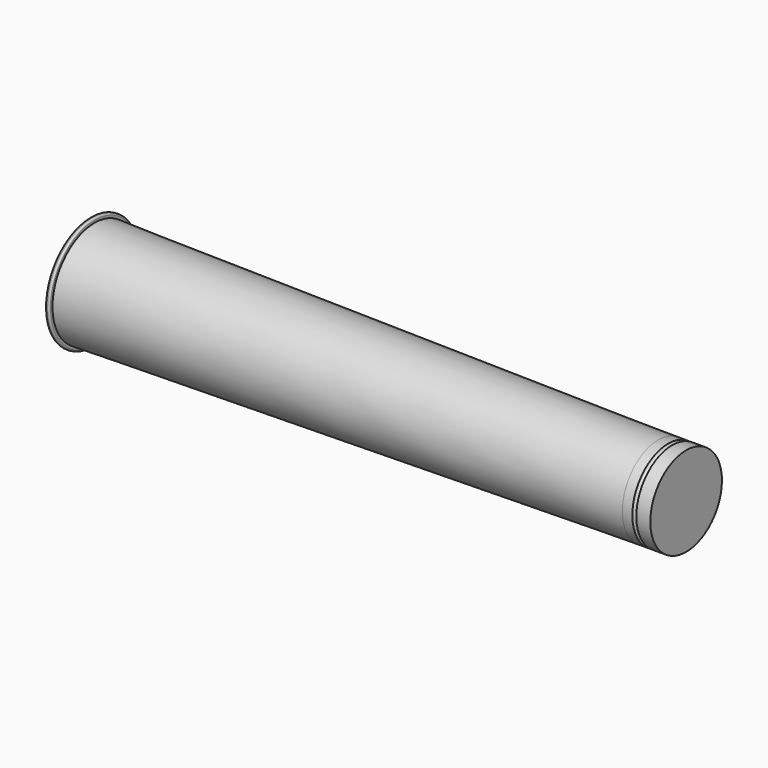
from build123d import *


with BuildPart() as f1:
    # F0 (on Front) → F1 (revolve)
    with BuildSketch(Plane.XZ):
        Polygon((0, 66), (0, 0), (710, 0), (710, 56), (5, 65.929577), align=None)
        with BuildLine():
            Line((710, 56), (710, 0))
            Line((710, 0), (745, 0))
            Line((745, 0), (745, 56))
            Line((745, 56), (727.5, 56))
            ThreePointArc((727.5, 56), (725, 53.5), (722.5, 56))
            Line((722.5, 56), (710, 56))
        make_face()
        with BuildLine():
            Line((0, 69), (0, 66))
            Line((0, 66), (5, 65.929577))
            Line((5, 65.929577), (5, 69))
            ThreePointArc((5, 69), (4.414214, 70.414214), (3, 71))
            Line((3, 71), (2, 71))
            ThreePointArc((2, 71), (0.585786, 70.414214), (0, 69))
        make_face()
    revolve(axis=Axis((355, 0, 0), (-1, 0, 0)))


solid = f1.part
